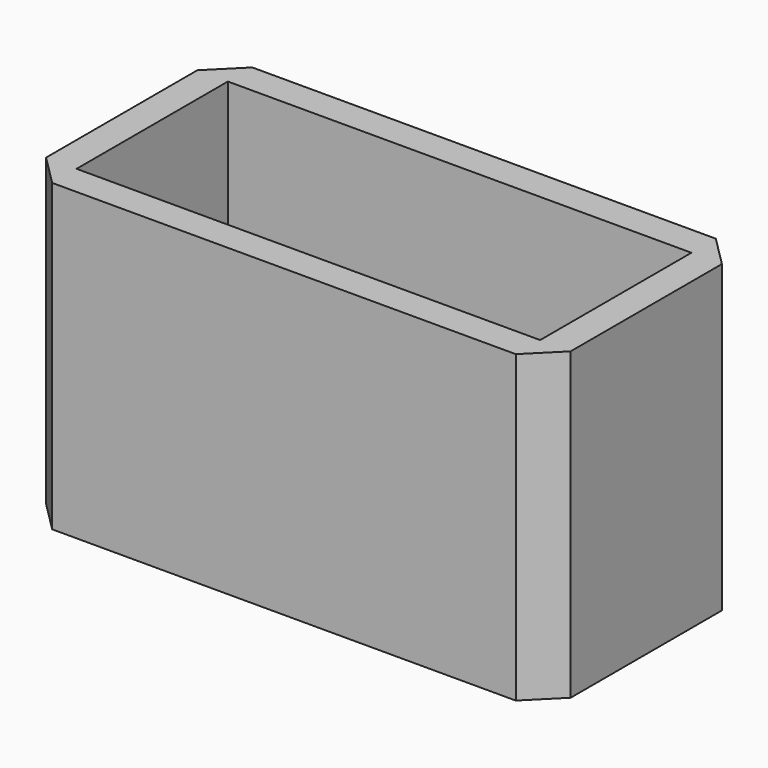
from build123d import *

# Parameters (mm, degrees)
F0_W     = 19.304
F0_H     = 1.27
F0_W_2   = 1.27
F0_H_2   = 7.874
F0_W_3   = 12.5374141614
F0_W_4   = 6.7665858386
F1_DEPTH = 12.7
F2_DEPTH = 12.7


with BuildPart() as f1:
    # F0 (on Top) → F1 (new body)
    with BuildSketch(Plane.XY):
        with Locations((9.652, -0.635)):
            Rectangle(F0_W, F0_H)
        Polygon((20.574, 0), (19.304, 0), (19.304, -1.27), align=None)
        with Locations((19.939, 3.937)):
            Rectangle(F0_W_2, F0_H_2)
        Polygon((19.304, 9.144), (19.304, 7.874), (20.574, 7.874), align=None)
        with Locations((13.0352929193, 8.509)):
            Rectangle(F0_W_3, F0_H)
        with Locations((3.3832929193, 8.509)):
            Rectangle(F0_W_4, F0_H)
        Polygon((-1.27, 7.874), (0, 7.874), (0, 9.144), align=None)
        with Locations((-0.635, 3.937)):
            Rectangle(F0_W_2, F0_H_2)
        Polygon((0, -1.27), (0, 0), (-1.27, 0), align=None)
    extrude(amount=F1_DEPTH)

    # F0 (on Top) → F2 (join)
    with BuildSketch(Plane.XY):
        with Locations((-0.635, 3.937)):
            Rectangle(F0_W_2, F0_H_2)
        with Locations((9.652, -0.635)):
            Rectangle(F0_W, F0_H)
        Polygon((0, -1.27), (0, 0), (-1.27, 0), align=None)
        with Locations((19.939, 3.937)):
            Rectangle(F0_W_2, F0_H_2)
        Polygon((20.574, 0), (19.304, 0), (19.304, -1.27), align=None)
        with Locations((3.3832929193, 8.509)):
            Rectangle(F0_W_4, F0_H)
        Polygon((-1.27, 7.874), (0, 7.874), (0, 9.144), align=None)
        with Locations((13.0352929193, 8.509)):
            Rectangle(F0_W_3, F0_H)
        Polygon((19.304, 9.144), (19.304, 7.874), (20.574, 7.874), align=None)
    extrude(amount=F2_DEPTH)


solid = f1.part
